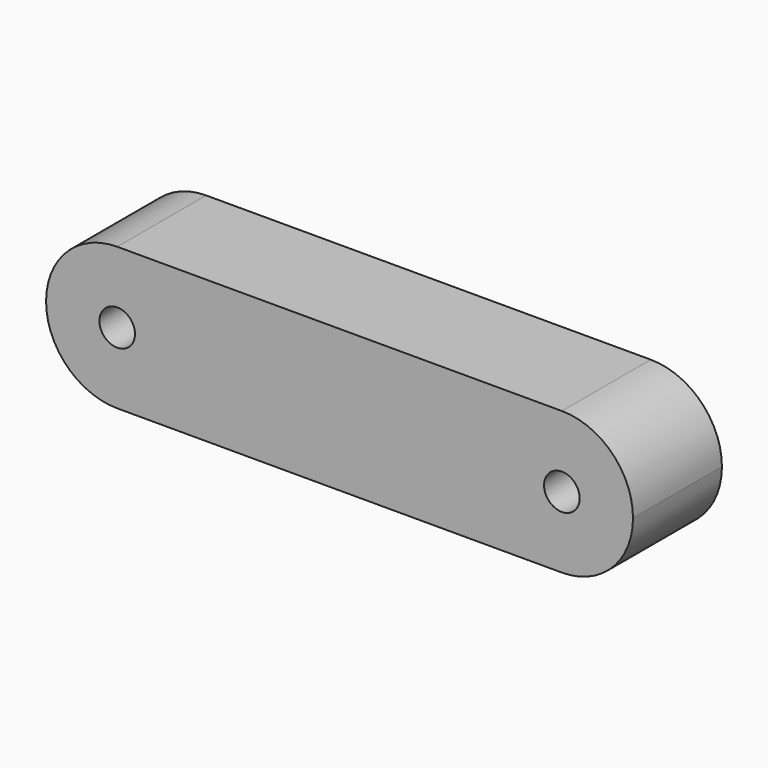
from build123d import *

# Parameters (mm, degrees)
F0_R     = 4
F1_DEPTH = 25


with BuildPart() as f1:
    # F0 (on Front) → F1 (new body)
    with BuildSketch(Plane.XZ):
        Circle(F0_R)
        with BuildLine():
            ThreePointArc((104, 0), (100, 4), (96, 0))
            ThreePointArc((96, 0), (100, -4), (104, 0))
        make_face()
        with BuildLine():
            Line((100, 16), (0, 16))
            ThreePointArc((0, 16), (-11.313708, 11.313708), (-16, 0))
            ThreePointArc((-16, 0), (-11.313708, -11.313708), (0, -16))
            Line((0, -16), (100, -16))
            ThreePointArc((100, -16), (111.313708, -11.313708), (116, 0))
            ThreePointArc((116, 0), (111.313708, 11.313708), (100, 16))
        make_face()
        Circle(F0_R, mode=Mode.SUBTRACT)
        with BuildLine():
            ThreePointArc((104, 0), (100, -4), (96, 0))
            ThreePointArc((96, 0), (100, 4), (104, 0))
        make_face(mode=Mode.SUBTRACT)
    extrude(amount=F1_DEPTH)


solid = f1.part
